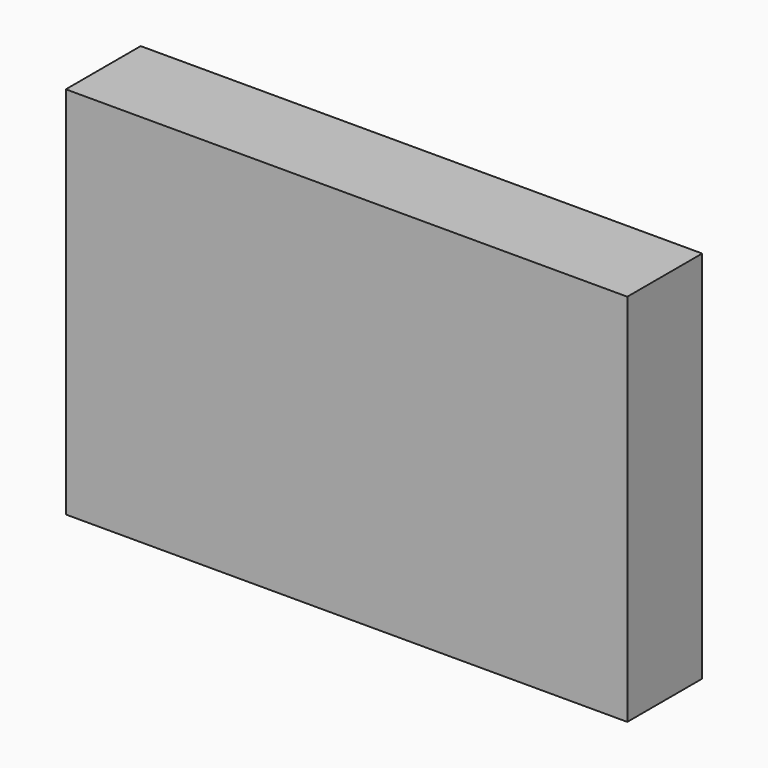
from build123d import *

# Parameters (mm, degrees)
F0_W     = 101.6
F0_H     = 25.4
F1_DEPTH = 25.4
F0_H_2   = 50.8
F2_DEPTH = 25.4


with BuildPart() as f1:
    # F0 (on Front) → F1 (new body)
    with BuildSketch(Plane.XZ):
        with Locations((0.773789, 49.589641)):
            Rectangle(F0_W, F0_H)
    extrude(amount=F1_DEPTH)

    # F0 (on Front) → F2 (join)
    with BuildSketch(Plane.XZ):
        Polygon((-50.026211, 62.289641), (-75.426211, 62.289641), (-75.426211, -39.310359), (-50.026211, -39.310359), (-50.026211, -13.910359), (-50.026211, 36.889641), align=None)
        with Locations((0.773789, 11.489641)):
            Rectangle(F0_W, F0_H_2)
        with Locations((0.773789, -26.610359)):
            Rectangle(F0_W, F0_H)
        Polygon((76.973789, 62.289641), (51.573789, 62.289641), (51.573789, 36.889641), (51.573789, -13.910359), (51.573789, -39.310359), (76.973789, -39.310359), align=None)
    extrude(amount=F2_DEPTH)


solid = f1.part
